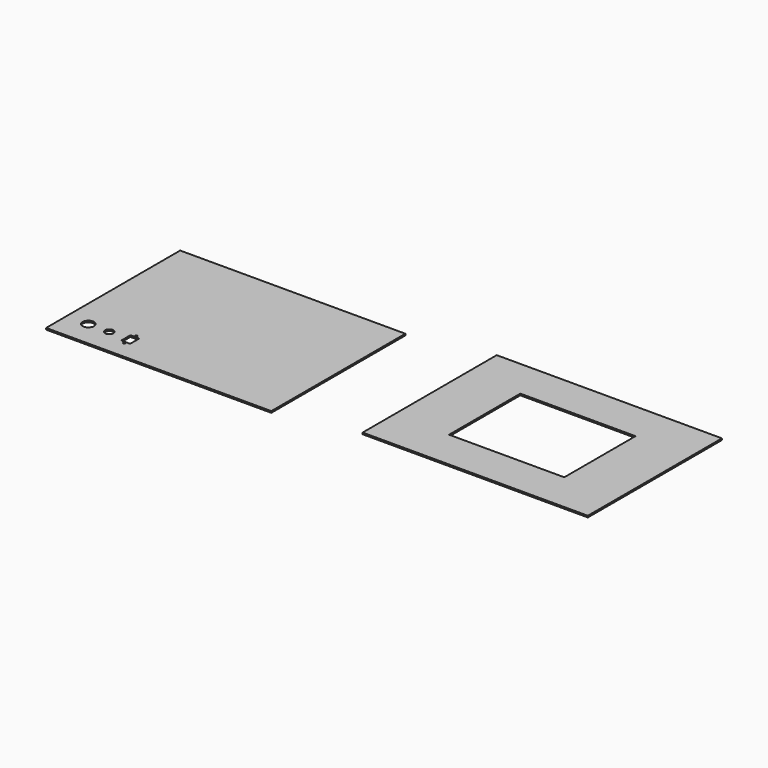
from build123d import *

# Parameters (mm, degrees)
F0_W     = 430
F0_H     = 320
F0_R     = 2
F0_R_2   = 11
F0_R_3   = 8
F0_W_2   = 17
F0_H_2   = 22
F1_DEPTH = 3
F0_W_3   = 220
F0_H_3   = 170
F2_DEPTH = 3


with BuildPart() as f1:
    # F0 (on Top) → F1 (new body)
    with BuildSketch(Plane.XY):
        with Locations((-123.41984, 110.841039)):
            Rectangle(F0_W, F0_H)
        with Locations((-217, -14.5)):
            Circle(F0_R, mode=Mode.SUBTRACT)
        with Locations((-297, 0)):
            Circle(F0_R_2, mode=Mode.SUBTRACT)
        with Locations((-257, 0)):
            Circle(F0_R_3, mode=Mode.SUBTRACT)
        with Locations((-217, 0)):
            Rectangle(F0_W_2, F0_H_2, mode=Mode.SUBTRACT)
        with Locations((-217, 14.5)):
            Circle(F0_R, mode=Mode.SUBTRACT)
    extrude(amount=F1_DEPTH)


with BuildPart() as f2:
    # F0 (on Top) → F2 (new body)
    with BuildSketch(Plane.XY):
        with Locations((456.212402, 141.877669)):
            Rectangle(F0_W, F0_H)
        with Locations((456.212402, 141.877669)):
            Rectangle(F0_W_3, F0_H_3, mode=Mode.SUBTRACT)
    extrude(amount=F2_DEPTH)


solid = Compound([f1.part, f2.part])
